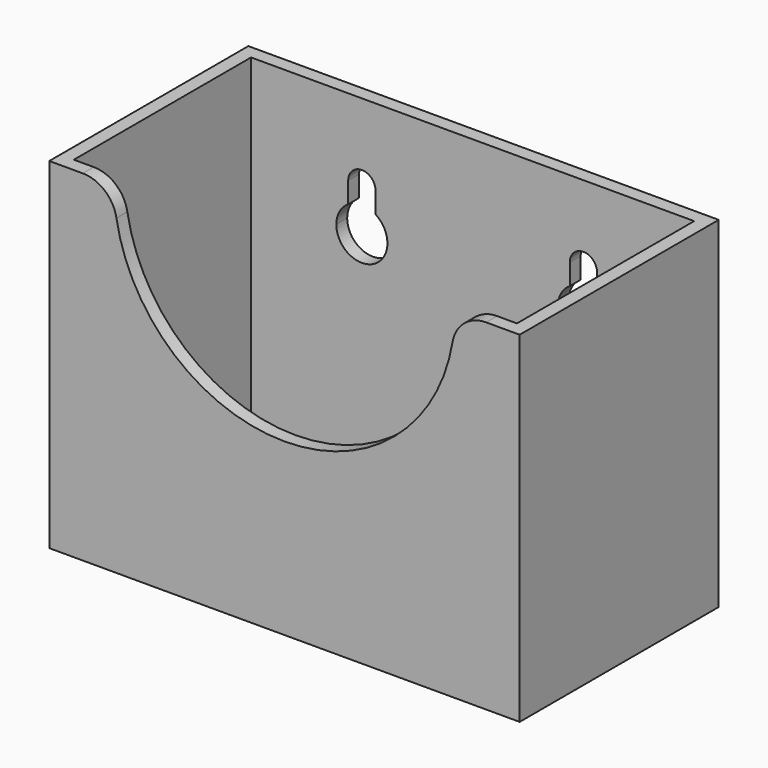
from build123d import *

# Parameters (mm, degrees)
F0_W     = 70.104
F0_H     = 37.084
F0_W_2   = 66.04
F0_H_2   = 33.02
F1_DEPTH = 50.8
F2_DEPTH = 2.54
F3_W     = 58.42
F3_H     = 33.02
F4_DEPTH = 25.4
F6_DEPTH = 25.4
F8_DEPTH = 25.4
F9_R     = 5.08


with BuildPart() as f1:
    # F0 (on Top) → F1 (new body)
    with BuildSketch(Plane.XY):
        with Locations((33.02, 16.51)):
            Rectangle(F0_W, F0_H)
        with Locations((33.02, 16.51)):
            Rectangle(F0_W_2, F0_H_2, mode=Mode.SUBTRACT)
    extrude(amount=F1_DEPTH)

    # F0 (on Top) → F2 (join)
    with BuildSketch(Plane.XY):
        with Locations((33.02, 16.51)):
            Rectangle(F0_W_2, F0_H_2)
    extrude(amount=F2_DEPTH)

    # F3 (on face) → F4 (cut)
    with BuildSketch(Plane.XY.offset(2.54)):
        with Locations((33.02, 16.51)):
            Rectangle(F3_W, F3_H)
    extrude(amount=-F4_DEPTH, mode=Mode.SUBTRACT)

    # F5 (on face) → F6 (cut)
    with BuildSketch(Plane.XZ.offset(2.032)):
        with BuildLine():
            Line((58.42, 50.8), (7.62, 50.8))
            ThreePointArc((7.62, 50.8), (33.02, 25.4), (58.42, 50.8))
        make_face()
    extrude(amount=-F6_DEPTH, mode=Mode.SUBTRACT)

    # F7 (on face) → F8 (cut)
    with BuildSketch(Plane(origin=(0, 35.052, 0), x_dir=(-1, 0, 0), z_dir=(0, 1, 0))):
        with BuildLine():
            ThreePointArc((-51.562, 36.2428986953), (-51.3704048468, 29.6839829137), (-45.72, 33.02))
            ThreePointArc((-45.72, 33.02), (-46.1939829137, 34.8604048468), (-47.498, 36.2428986953))
            ThreePointArc((-47.498, 36.2428986953), (-49.53, 36.83), (-51.562, 36.2428986953))
        make_face()
        with BuildLine():
            ThreePointArc((-51.562, 36.2428986953), (-49.53, 36.83), (-47.498, 36.2428986953))
            Line((-47.498, 36.2428986953), (-47.498, 39.37))
            ThreePointArc((-47.498, 39.37), (-49.53, 41.402), (-51.562, 39.37))
            Line((-51.562, 39.37), (-51.562, 36.2428986953))
        make_face()
        with BuildLine():
            ThreePointArc((-18.542, 36.2428986953), (-16.51, 36.83), (-14.478, 36.2428986953))
            Line((-14.478, 36.2428986953), (-14.478, 39.37))
            ThreePointArc((-14.478, 39.37), (-16.51, 41.402), (-18.542, 39.37))
            Line((-18.542, 39.37), (-18.542, 36.2428986953))
        make_face()
        with BuildLine():
            ThreePointArc((-18.542, 36.2428986953), (-18.3504048468, 29.6839829137), (-12.7, 33.02))
            ThreePointArc((-12.7, 33.02), (-13.1739829137, 34.8604048468), (-14.478, 36.2428986953))
            ThreePointArc((-14.478, 36.2428986953), (-16.51, 36.83), (-18.542, 36.2428986953))
        make_face()
    extrude(amount=-F8_DEPTH, mode=Mode.SUBTRACT)

    # F9
    f9_edges = [f1.edges().sort_by_distance(p)[0] for p in [
        (58.42, -1.016, 50.8),
        (7.62, -1.016, 50.8),
        (62.23, 0, 1.27),
        (62.23, 33.02, 1.27),
        (3.81, 33.02, 1.27),
        (3.81, 0, 1.27),
    ]]
    fillet(f9_edges, radius=F9_R)


solid = f1.part
